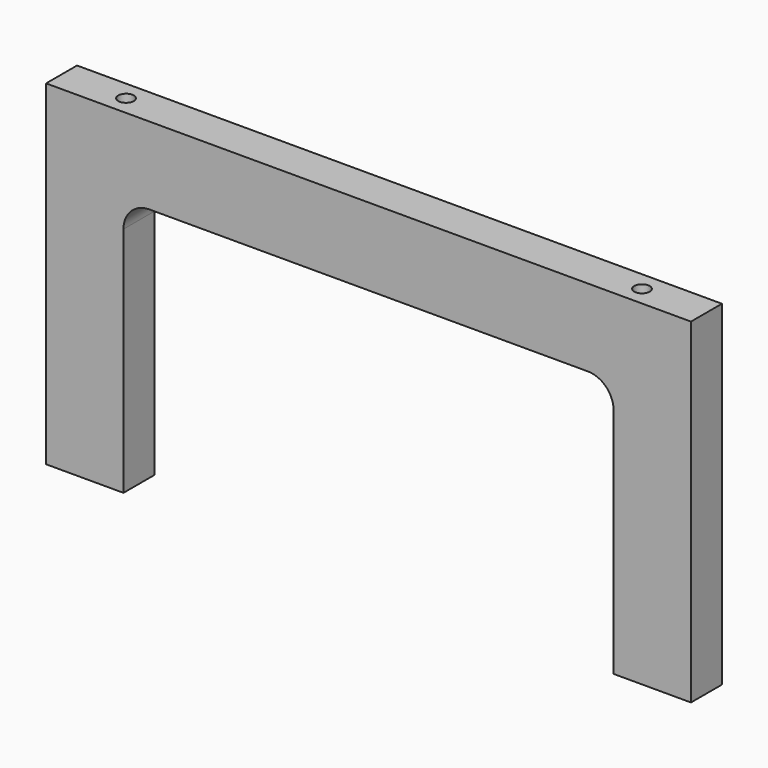
from build123d import *

# Parameters (mm, degrees)
F0_W     = 250
F0_H     = 15
F1_DEPTH = 130
F2_D     = 6
F2_DEPTH = 7
F2_TIP   = 1.8025818571
F4_DEPTH = 12.5


with BuildPart() as f1:
    # F0 (on Top) → F1 (new body)
    with BuildSketch(Plane.XY):
        Rectangle(F0_W, F0_H)
    extrude(amount=-F1_DEPTH)

    # F2
    with Locations(Plane.XY):
        with Locations((-100, 0), (100, 0)):
            Hole(F2_D / 2, depth=F2_DEPTH)
            with Locations((0, 0, -(F2_DEPTH + F2_TIP / 2))):  # 118° drill point
                Cone(0, F2_D / 2, F2_TIP, mode=Mode.SUBTRACT)

    # F3 (on Front) → F4 (cut, symmetric)
    with BuildSketch(Plane.XZ):
        with BuildLine():
            Line((-95, -177.2061562841), (95, -177.2061562841))
            Line((95, -177.2061562841), (95, -40))
            ThreePointArc((95, -40), (92.0710678119, -32.9289321881), (85, -30))
            Line((85, -30), (-85, -30))
            ThreePointArc((-85, -30), (-92.0710678119, -32.9289321881), (-95, -40))
            Line((-95, -40), (-95, -177.2061562841))
        make_face()
    extrude(amount=F4_DEPTH, both=True, mode=Mode.SUBTRACT)


solid = f1.part
